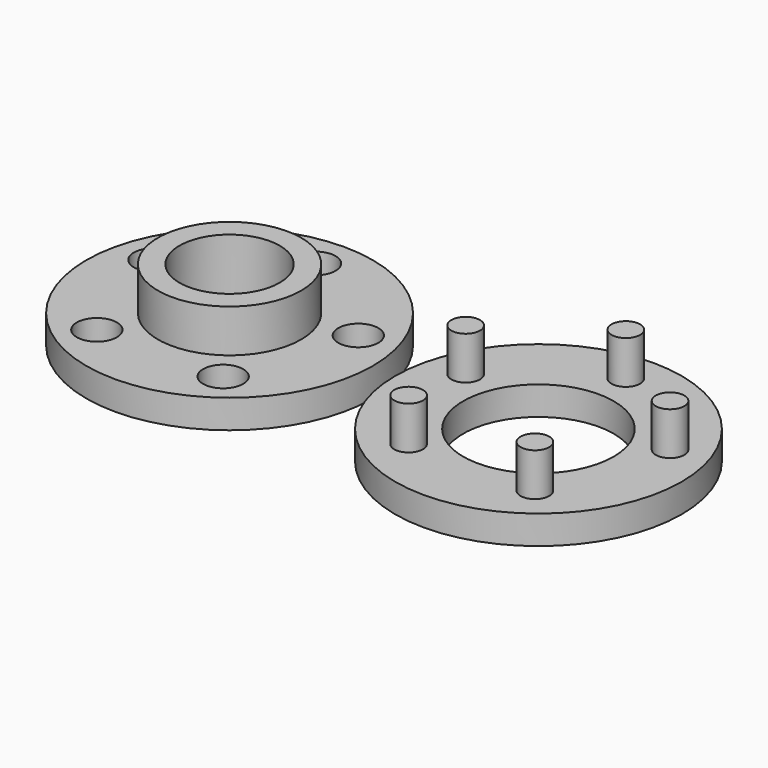
from build123d import *

# Parameters (mm, degrees)
F0_R     = 10
F0_R_2   = 1.4
F0_R_3   = 5
F1_DEPTH = 2
F3_R     = 5
F3_R_2   = 3.5
F4_DEPTH = 5
F2_R     = 10
F2_R_2   = 1
F2_R_3   = 5.25
F5_DEPTH = 2
F6_DEPTH = 5


with BuildPart() as f1:
    # F0 (on Top) → F1 (new body)
    with BuildSketch(Plane.XY):
        Circle(F0_R)
        with Locations((-4.408389, -6.067627)):
            Circle(F0_R_2, mode=Mode.SUBTRACT)
        with Locations((4.408389, -6.067627)):
            Circle(F0_R_2, mode=Mode.SUBTRACT)
        with Locations((-7.132924, 2.317627)):
            Circle(F0_R_2, mode=Mode.SUBTRACT)
        Circle(F0_R_3, mode=Mode.SUBTRACT)
        with Locations((7.132924, 2.317627)):
            Circle(F0_R_2, mode=Mode.SUBTRACT)
        with Locations((0, 7.5)):
            Circle(F0_R_2, mode=Mode.SUBTRACT)
    extrude(amount=F1_DEPTH)

    # F3 (on Top) → F4 (join)
    with BuildSketch(Plane.XY):
        Circle(F3_R)
        Circle(F3_R_2, mode=Mode.SUBTRACT)
    extrude(amount=F4_DEPTH)


with BuildPart() as f5:
    # F2 (on Top) → F5 (new body)
    with BuildSketch(Plane.XY):
        with Locations((21.686854, -0.160141)):
            Circle(F2_R)
        with Locations((17.278464, -5.977768)):
            Circle(F2_R_2, mode=Mode.SUBTRACT)
        with Locations((26.095243, -5.977768)):
            Circle(F2_R_2, mode=Mode.SUBTRACT)
        with Locations((14.55393, 2.407487)):
            Circle(F2_R_2, mode=Mode.SUBTRACT)
        with Locations((21.686854, -0.160141)):
            Circle(F2_R_3, mode=Mode.SUBTRACT)
        with Locations((28.819778, 2.407487)):
            Circle(F2_R_2, mode=Mode.SUBTRACT)
        with Locations((21.686854, 7.464859)):
            Circle(F2_R_2, mode=Mode.SUBTRACT)
        with Locations((14.55393, 2.407487)):
            Circle(F2_R_2)
        with Locations((21.686854, 7.464859)):
            Circle(F2_R_2)
        with Locations((28.819778, 2.407487)):
            Circle(F2_R_2)
        with Locations((26.095243, -5.977768)):
            Circle(F2_R_2)
        with Locations((17.278464, -5.977768)):
            Circle(F2_R_2)
    extrude(amount=F5_DEPTH)

    # F2 (on Top) → F6 (join)
    with BuildSketch(Plane.XY):
        with Locations((21.686854, 7.464859)):
            Circle(F2_R_2)
        with Locations((28.819778, 2.407487)):
            Circle(F2_R_2)
        with Locations((26.095243, -5.977768)):
            Circle(F2_R_2)
        with Locations((17.278464, -5.977768)):
            Circle(F2_R_2)
        with Locations((14.55393, 2.407487)):
            Circle(F2_R_2)
    extrude(amount=F6_DEPTH)


solid = Compound([f1.part, f5.part])
